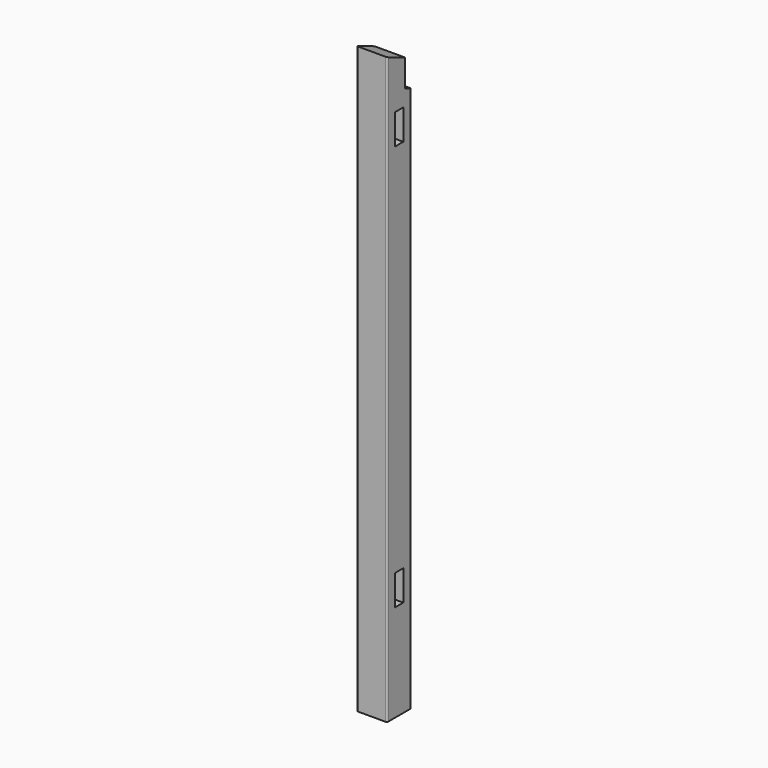
from build123d import *

# Parameters (mm, degrees)
F0_W     = 88
F0_H     = 88
F1_DEPTH = 1700
F3_DEPTH = 88.001
F5_DEPTH = 88.001
F7_DEPTH = 31
F9_DEPTH = 31
F10_R    = 5


with BuildPart() as f1:
    # F0 (on Top) → F1 (new body)
    with BuildSketch(Plane.XY):
        with Locations((44, 44)):
            Rectangle(F0_W, F0_H)
    extrude(amount=F1_DEPTH)

    # F2 (on face) → F3 (cut, through all)
    with BuildSketch(Plane(origin=(0, 0, 0), x_dir=(0, -1, 0), z_dir=(-1, 0, 0))):
        Polygon((-88, 1663.5492065112), (0, 1700), (-88, 1700), align=None)
    extrude(amount=-F3_DEPTH, mode=Mode.SUBTRACT)

    # F4 (on face) → F5 (cut, through all)
    with BuildSketch(Plane(origin=(0, 0, 0), x_dir=(0, -1, 0), z_dir=(-1, 0, 0))):
        Polygon((-65, 1594.0761184457), (-65, 1673.0761184457), (-88, 1663.5492065112), (-88, 1584.5492065112), align=None)
    extrude(amount=-F5_DEPTH, mode=Mode.SUBTRACT)

    # F6 (on face) → F7 (cut)
    with BuildSketch(Plane.YZ.offset(88)):
        Polygon((29, 282), (44, 282), (59, 282), (59, 370), (29, 370), align=None)
    extrude(amount=-F7_DEPTH, mode=Mode.SUBTRACT)

    # F8 (on face) → F9 (cut)
    with BuildSketch(Plane.YZ.offset(88)):
        Polygon((29, 1460), (44, 1460), (59, 1460), (59, 1548), (29, 1548), align=None)
    extrude(amount=-F9_DEPTH, mode=Mode.SUBTRACT)

    # F10
    f10_edges = [f1.edges().sort_by_distance(p)[0] for p in [
        (88, 0, 850),
        (0, 0, 850),
        (88, 88, 792.274603),
        (0, 88, 792.274603),
    ]]
    fillet(f10_edges, radius=F10_R)


solid = f1.part
